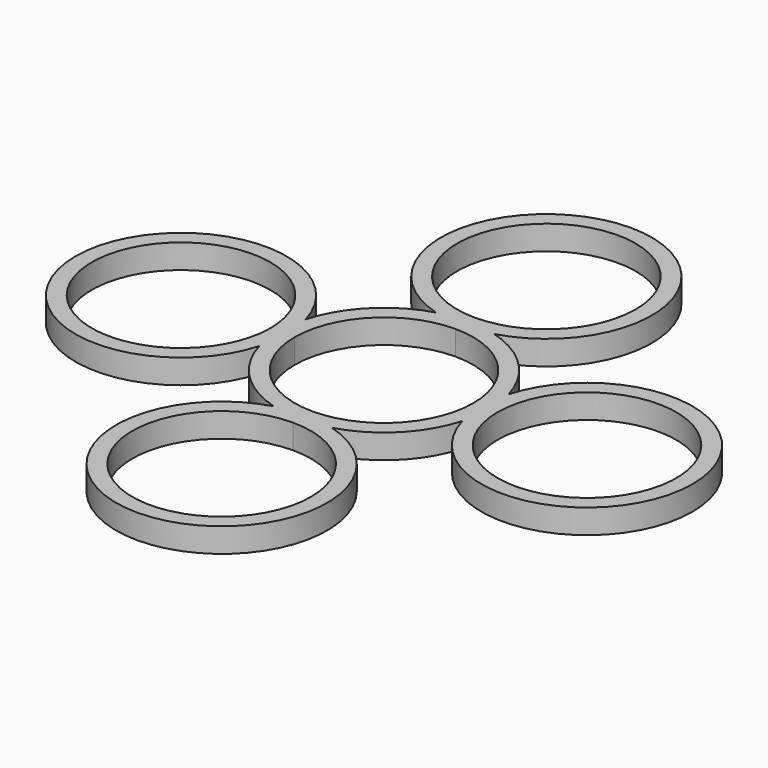
from build123d import *

# Parameters (mm, degrees)
F0_R     = 11
F1_DEPTH = 3


with BuildPart() as f1:
    # F0 (on Top) → F1 (new body)
    with BuildSketch(Plane.XY):
        with BuildLine():
            ThreePointArc((-12.5, 3.570714), (-38, 0), (-12.5, -3.570714))
            ThreePointArc((-12.5, -3.570714), (-9.192388, -9.192388), (-3.570714, -12.5))
            ThreePointArc((-3.570714, -12.5), (0, -38), (3.570714, -12.5))
            ThreePointArc((3.570714, -12.5), (9.192388, -9.192388), (12.5, -3.570714))
            ThreePointArc((12.5, -3.570714), (38, 0), (12.5, 3.570714))
            ThreePointArc((12.5, 3.570714), (9.192388, 9.192388), (3.570714, 12.5))
            ThreePointArc((3.570714, 12.5), (0, 38), (-3.570714, 12.5))
            ThreePointArc((-3.570714, 12.5), (-9.192388, 9.192388), (-12.5, 3.570714))
        make_face()
        with BuildLine():
            ThreePointArc((11, -25), (-7.778175, -32.778175), (0, -14))
            ThreePointArc((0, -14), (7.778175, -17.221825), (11, -25))
        make_face(mode=Mode.SUBTRACT)
        with Locations((-25, 0)):
            Circle(F0_R, mode=Mode.SUBTRACT)
        with BuildLine():
            ThreePointArc((0, 11), (7.778175, 7.778175), (11, 0))
            ThreePointArc((11, 0), (7.778175, -7.778175), (0, -11))
            ThreePointArc((0, -11), (-7.778175, -7.778175), (-11, 0))
            ThreePointArc((-11, 0), (-7.778175, 7.778175), (0, 11))
        make_face(mode=Mode.SUBTRACT)
        with BuildLine():
            ThreePointArc((36, 0), (25, -11), (14, 0))
            ThreePointArc((14, 0), (25, 11), (36, 0))
        make_face(mode=Mode.SUBTRACT)
        with BuildLine():
            ThreePointArc((11, 25), (7.778175, 17.221825), (0, 14))
            ThreePointArc((0, 14), (-7.778175, 32.778175), (11, 25))
        make_face(mode=Mode.SUBTRACT)
    extrude(amount=F1_DEPTH)


solid = f1.part
